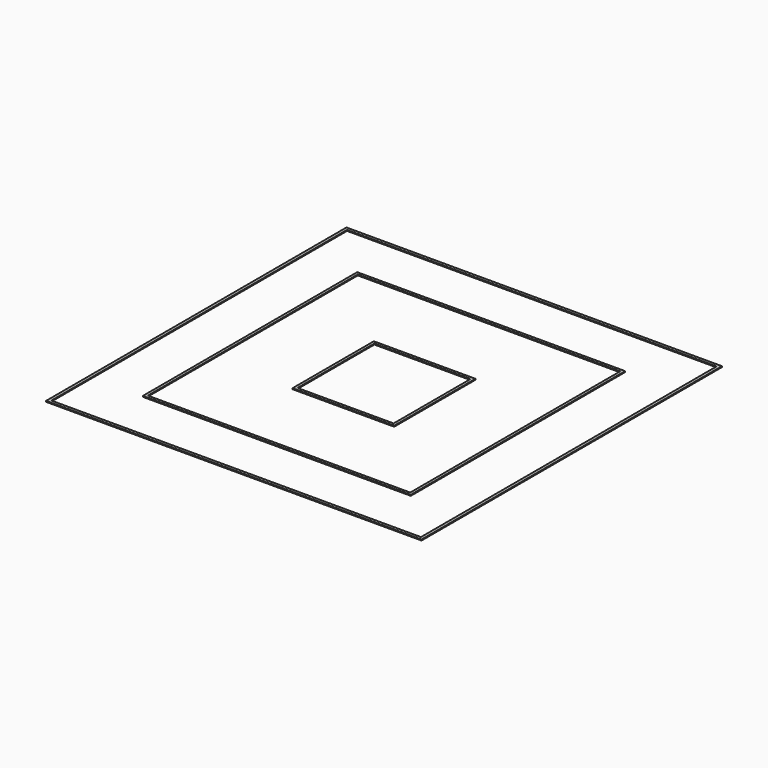
from build123d import *

# Parameters (mm, degrees)
F0_W     = 203.2
F0_H     = 203.2
F0_W_2   = 200
F0_H_2   = 200
F1_DEPTH = 0.5
F0_W_3   = 55
F0_H_3   = 55
F0_W_4   = 52
F0_H_4   = 52
F0_W_5   = 145
F0_H_5   = 145
F0_W_6   = 142
F0_H_6   = 142


with BuildPart() as f1:
    # F0 (on Top) → F1 (new body)
    with BuildSketch(Plane.XY):
        Rectangle(F0_W, F0_H)
        Rectangle(F0_W_2, F0_H_2, mode=Mode.SUBTRACT)
    extrude(amount=F1_DEPTH)


with BuildPart() as f1b:
    # F0 (on Top) → F1, piece 2 (new body)
    with BuildSketch(Plane.XY):
        Rectangle(F0_W_3, F0_H_3)
        Rectangle(F0_W_4, F0_H_4, mode=Mode.SUBTRACT)
    extrude(amount=F1_DEPTH)


with BuildPart() as f1c:
    # F0 (on Top) → F1, piece 3 (new body)
    with BuildSketch(Plane.XY):
        Rectangle(F0_W_5, F0_H_5)
        Rectangle(F0_W_6, F0_H_6, mode=Mode.SUBTRACT)
    extrude(amount=F1_DEPTH)


solid = Compound([f1.part, f1b.part, f1c.part])
